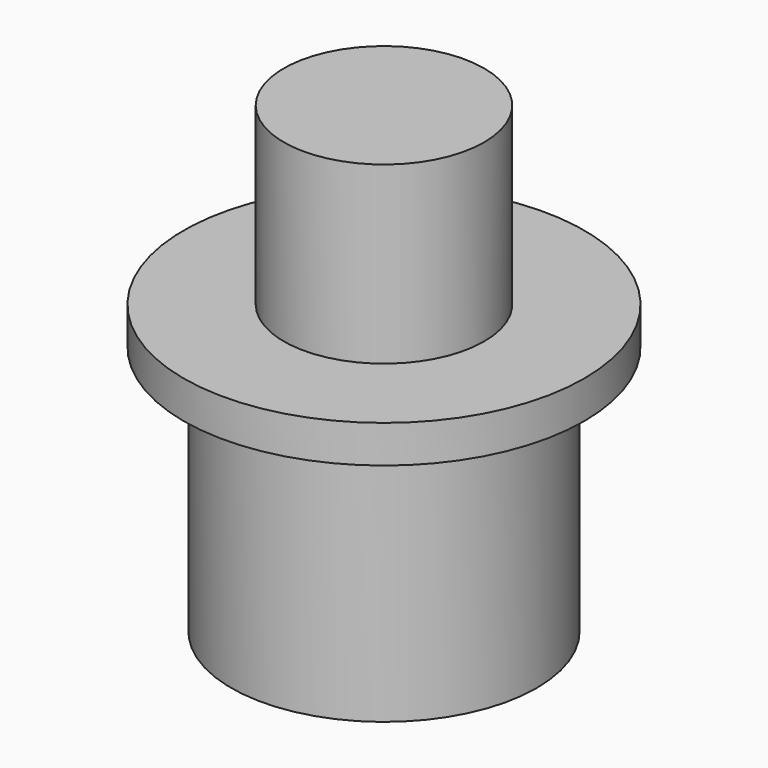
from build123d import *

# Parameters (mm, degrees)
F0_R     = 6.1
F0_R_2   = 4
F1_DEPTH = 10
F2_DEPTH = 18.5
F3_R     = 8
F4_DEPTH = 1.5


with BuildPart() as f1:
    # F0 (on Top) → F1 (new body)
    with BuildSketch(Plane.XY):
        Circle(F0_R)
        Circle(F0_R_2, mode=Mode.SUBTRACT)
    extrude(amount=F1_DEPTH)

    # F0 (on Top) → F2 (join)
    with BuildSketch(Plane.XY):
        Circle(F0_R_2)
    extrude(amount=F2_DEPTH)

    # F3 (on face) → F4 (join)
    with BuildSketch(Plane.XY.offset(10)):
        Circle(F3_R)
    extrude(amount=F4_DEPTH)


solid = f1.part
